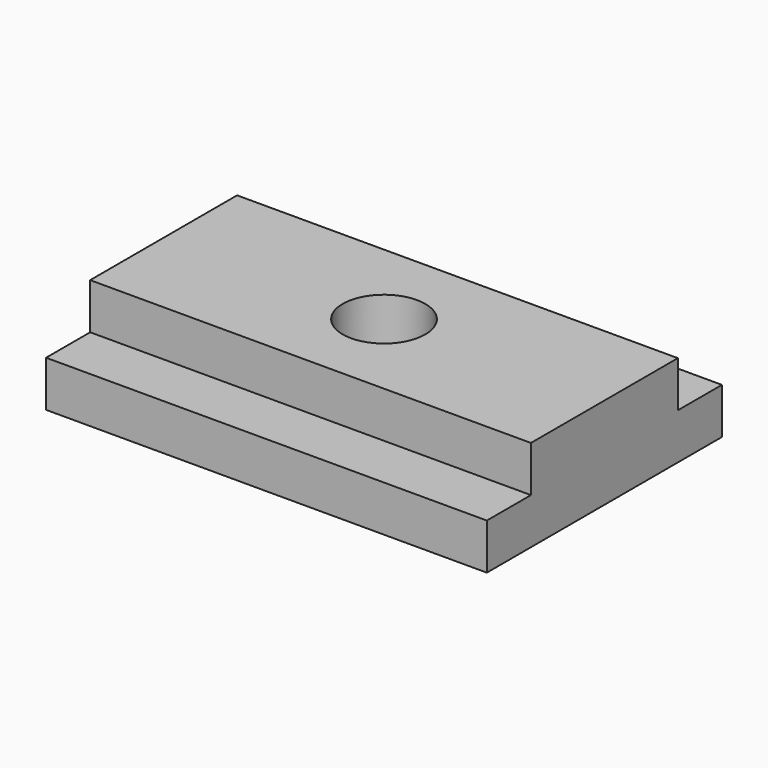
from build123d import *

# Parameters (mm, degrees)
F0_R     = 14.2875
F1_DEPTH = 15.875
F0_W     = 152.4
F0_H     = 19.05
F2_DEPTH = 15.875


with BuildPart() as f1:
    # F0 (on Top) → F1 (new body)
    with BuildSketch(Plane.XY):
        Polygon((76.2, 31.75), (-76.2, 31.75), (-76.2, -31.75), (76.2, -31.75), (76.2, 0), align=None)
        Circle(F0_R, mode=Mode.SUBTRACT)
    extrude(amount=F1_DEPTH)

    # F0 (on Top) → F2 (join)
    with BuildSketch(Plane.XY):
        with Locations((0, 41.275)):
            Rectangle(F0_W, F0_H)
        Polygon((76.2, 31.75), (-76.2, 31.75), (-76.2, -31.75), (76.2, -31.75), (76.2, 0), align=None)
        Circle(F0_R, mode=Mode.SUBTRACT)
        with Locations((0, -41.275)):
            Rectangle(F0_W, F0_H)
    extrude(amount=-F2_DEPTH)


solid = f1.part
